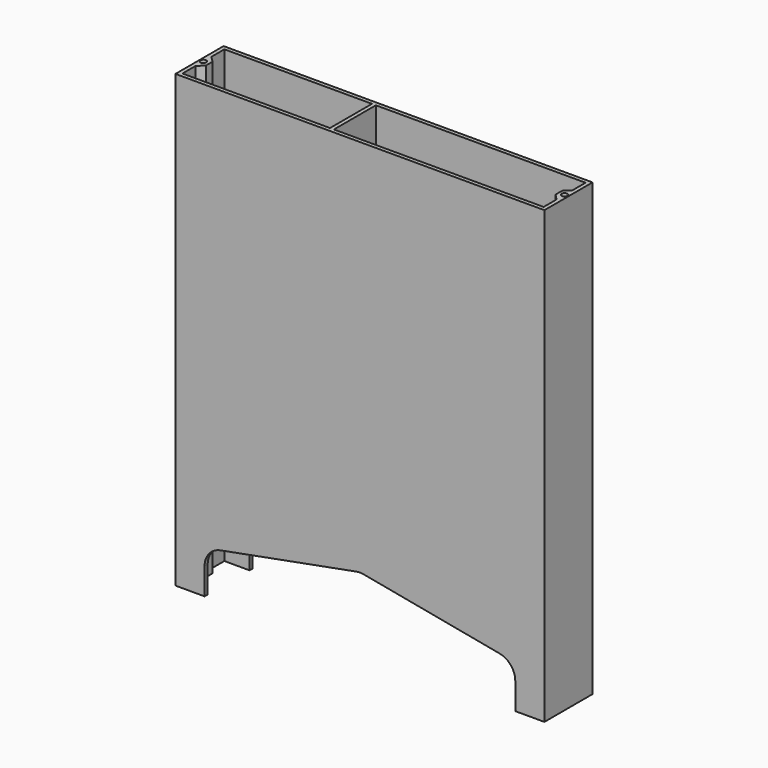
from build123d import *

# Parameters (mm, degrees)
F0_W     = 190
F0_H     = 31
F0_R     = 1.5
F1_DEPTH = 232
F2_W     = 2
F2_H     = 150
F2_H_2   = 2
F2_W_2   = 17
F3_DEPTH = 29.5
F4_W     = 160
F4_H     = 47
F5_DEPTH = 5
F6_W     = 160
F6_H     = 22
F7_DEPTH = 5
F8_R     = 10


with BuildPart() as f1:
    # F0 (on Top) → F1 (new body)
    with BuildSketch(Plane.XY):
        with Locations((95, 15.5)):
            Rectangle(F0_W, F0_H)
        with Locations((2, 15.5)):
            Circle(F0_R, mode=Mode.SUBTRACT)
        Polygon((188, 2), (2, 2), (2, 10.3786796564), (5, 13.3786796564), (5, 17.6213203436), (2, 20.6213203436), (2, 29), (188, 29), (188, 20.6213203436), (185, 17.6213203436), (185, 13.3786796564), (188, 10.3786796564), align=None, mode=Mode.SUBTRACT)
        with Locations((188, 15.5)):
            Circle(F0_R, mode=Mode.SUBTRACT)
    extrude(amount=F1_DEPTH)

    # F2 (on face) → F3 (join)
    with BuildSketch(Plane.XZ):
        with Locations((79, 157)):
            Rectangle(F2_W, F2_H)
        with Locations((79, 81)):
            Rectangle(F2_W, F2_H_2)
        with Locations((88.5, 81)):
            Rectangle(F2_W_2, F2_H_2)
    extrude(amount=-F3_DEPTH)

    # F4 (on face) → F5 (cut)
    with BuildSketch(Plane(origin=(0, 31, 0), x_dir=(-1, 0, 0), z_dir=(0, 1, 0))):
        Polygon((-95, 62), (-175, 47), (-15, 47), align=None)
        with Locations((-95, 23.5)):
            Rectangle(F4_W, F4_H)
    extrude(amount=-F5_DEPTH, mode=Mode.SUBTRACT)

    # F6 (on face) → F7 (cut)
    with BuildSketch(Plane.XZ):
        Polygon((95, 37), (15, 22), (175, 22), align=None)
        with Locations((95, 11)):
            Rectangle(F6_W, F6_H)
    extrude(amount=-F7_DEPTH, mode=Mode.SUBTRACT)

    # F8
    f8_edges = [f1.edges().sort_by_distance(p)[0] for p in [
        (15, 30, 47),
        (15, 1, 22),
        (175, 30, 47),
        (175, 1, 22),
        (95, 30, 62),
        (95, 1, 37),
    ]]
    fillet(f8_edges, radius=F8_R)


solid = f1.part
